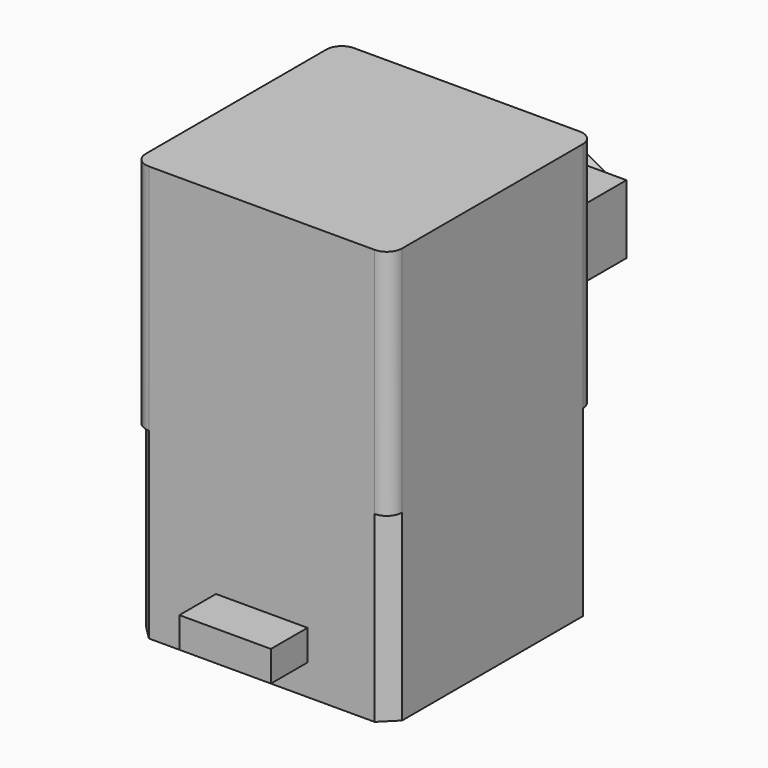
from build123d import *

# Parameters (mm, degrees)
F0_W      = 42
F0_H      = 42
F1_DEPTH  = 30
F2_SIZE   = 2.5
F3_R      = 1.5
F4_DEPTH  = 10
F5_R      = 11
F6_DEPTH  = 2
F8_DEPTH  = 24
F9_W      = 15
F9_H      = 5
F10_DEPTH = 7.5
F12_DEPTH = 38.1
F13_R     = 3
F14_DEPTH = 7.5
F15_W     = 20
F15_H     = 11.25
F16_DEPTH = 12.7
F18_DEPTH = 8
F19_SIZE  = 3.5
F20_R     = 2
F21_DEPTH = 25


with BuildPart() as f1:
    # F0 (on Top) → F1 (new body)
    with BuildSketch(Plane.XY):
        Rectangle(F0_W, F0_H)
    extrude(amount=F1_DEPTH)

    # F2
    f2_edges = [f1.edges().sort_by_distance(p)[0] for p in [
        (-21, -21, 15),
        (21, -21, 15),
        (21, 21, 15),
        (-21, 21, 15),
    ]]
    chamfer(f2_edges, length=F2_SIZE)

    # F3 (on face) → F4 (cut)
    with BuildSketch(Plane.XY.offset(30)):
        with Locations((-15.5, 15.5)):
            Circle(F3_R)
        with Locations((15.5, 15.5)):
            Circle(F3_R)
        with Locations((15.5, -15.5)):
            Circle(F3_R)
        with Locations((-15.5, -15.5)):
            Circle(F3_R)
    extrude(amount=-F4_DEPTH, mode=Mode.SUBTRACT)

    # F5 (on face) → F6 (join)
    with BuildSketch(Plane.XY.offset(30)):
        Circle(F5_R)
    extrude(amount=F6_DEPTH)

    # F7 (on face) → F8 (join)
    with BuildSketch(Plane.XY.offset(32)):
        with BuildLine():
            Line((2.193171, 1.2), (-2.193171, 1.2))
            ThreePointArc((-2.193171, 1.2), (0, -2.5), (2.193171, 1.2))
        make_face()
    extrude(amount=F8_DEPTH)

    # F9 (on face) → F10 (join)
    with BuildSketch(Plane.XZ.offset(21)):
        with Locations((0, 7.5)):
            Rectangle(F9_W, F9_H)
    extrude(amount=F10_DEPTH)

    # F11 (on face) → F12 (join)
    with BuildSketch(Plane.XY.offset(30)):
        with BuildLine():
            Line((-18.5, -21), (18.5, -21))
            ThreePointArc((18.5, -21), (20.267767, -20.267767), (21, -18.5))
            Line((21, -18.5), (21, 18.5))
            ThreePointArc((21, 18.5), (20.267767, 20.267767), (18.5, 21))
            Line((18.5, 21), (-18.5, 21))
            ThreePointArc((-18.5, 21), (-20.267767, 20.267767), (-21, 18.5))
            Line((-21, 18.5), (-21, -18.5))
            ThreePointArc((-21, -18.5), (-20.267767, -20.267767), (-18.5, -21))
        make_face()
    extrude(amount=F12_DEPTH)

    # F13 (on face) → F14 (join)
    with BuildSketch(Plane(origin=(0, 21, 0), x_dir=(-1, 0, 0), z_dir=(0, 1, 0))):
        with Locations((0, 44.475)):
            Circle(F13_R)
    extrude(amount=F14_DEPTH)

    # F15 (on face) → F16 (join)
    with BuildSketch(Plane(origin=(0, 28.5, 0), x_dir=(-1, 0, 0), z_dir=(0, 1, 0))):
        with Locations((0, 44.475)):
            Rectangle(F15_W, F15_H)
    extrude(amount=F16_DEPTH)

    # F17 (on face) → F18 (join)
    with BuildSketch(Plane(origin=(0, 41.2, 0), x_dir=(-1, 0, 0), z_dir=(0, 1, 0))):
        Polygon((3.75, 42.309936), (3.75, 46.640064), (0, 48.805127), (-3.75, 46.640064), (-3.75, 42.309936), (0, 40.144873), align=None)
    extrude(amount=F18_DEPTH)

    # F19
    f19_edges = [f1.edges().sort_by_distance(p)[0] for p in [
        (-1.875, 49.2, 41.227405),
        (1.875, 49.2, 47.722595),
        (-3.75, 49.2, 44.475),
        (1.875, 49.2, 41.227405),
        (3.75, 49.2, 44.475),
        (-1.875, 49.2, 47.722595),
    ]]
    chamfer(f19_edges, length=F19_SIZE)

    # F20 (on face) → F21 (cut)
    with BuildSketch(Plane(origin=(0, 0, 0), x_dir=(1, 0, 0), z_dir=(0, 0, -1))):
        with Locations((-15.5, 15.5)):
            Circle(F20_R)
        with Locations((15.5, 15.5)):
            Circle(F20_R)
    extrude(amount=-F21_DEPTH, mode=Mode.SUBTRACT)


solid = f1.part
